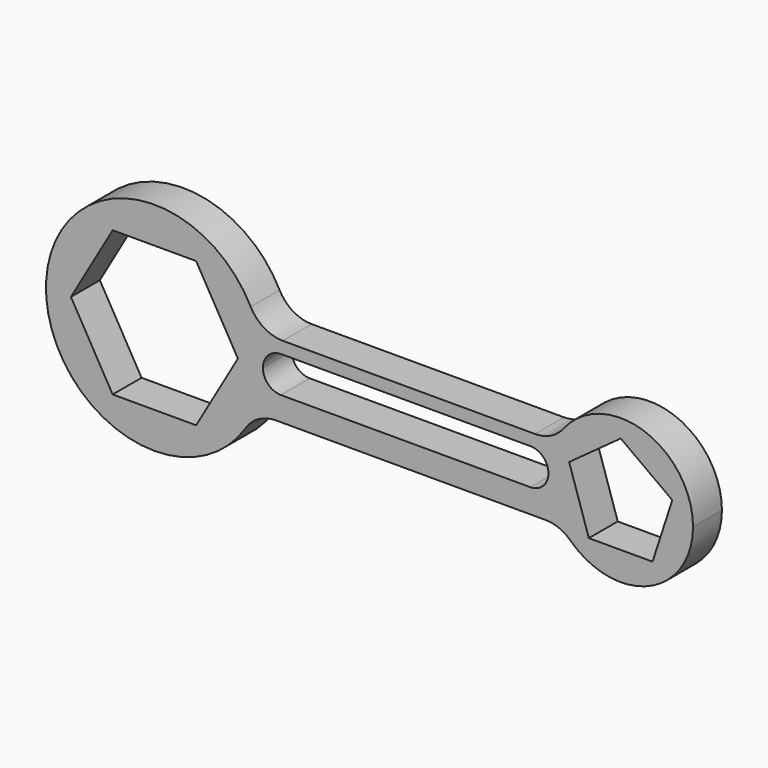
from build123d import *

# Parameters (mm, degrees)
F1_DEPTH = 254


with BuildPart() as f1:
    # F0 (on Front) → F1 (new body)
    with BuildSketch(Plane.XZ):
        with BuildLine():
            ThreePointArc((-11359.756859, 349.991885), (-11296.21335, 180.098482), (-11274.624409, 0))
            ThreePointArc((-11274.624409, 0), (-11274.624416, -0.102806), (-11274.624437, -0.205613))
            ThreePointArc((-11274.624437, -0.205613), (-11237.414886, 89.574795), (-11147.624441, 126.760119))
            Line((-11147.624441, 126.760119), (-9395.024378, 126.760119))
            ThreePointArc((-9395.024378, 126.760119), (-9305.207724, 89.548586), (-9268.024384, -0.279743))
            ThreePointArc((-9268.024384, -0.279743), (-9240.601765, 164.210176), (-9161.392211, 310.95751))
            ThreePointArc((-9161.392211, 310.95751), (-9250.342898, 238.55129), (-9362.076113, 212.655846))
            Line((-9362.076113, 212.655846), (-11134.134342, 212.655846))
            ThreePointArc((-11134.134342, 212.655846), (-11266.201283, 249.689667), (-11359.756859, 349.991885))
        make_face()
        with BuildLine():
            ThreePointArc((-11274.624437, -0.205613), (-11274.624416, -0.102806), (-11274.624409, 0))
            ThreePointArc((-11274.624409, 0), (-11296.21335, 180.098482), (-11359.756859, 349.991885))
            ThreePointArc((-11359.756859, 349.991885), (-12797.782112, 35.818309), (-11395.614805, -412.008115))
            ThreePointArc((-11395.614805, -412.008115), (-11305.526404, -214.801552), (-11274.624437, -0.205613))
        make_face()
        Polygon((-12329.918346, 508), (-11743.330472, 508), (-11450.036536, 0), (-11743.330472, -508), (-12329.918346, -508), (-12623.212283, 0), align=None, mode=Mode.SUBTRACT)
        with BuildLine():
            ThreePointArc((-8252.024409, -0.439161), (-8595.45048, 480.164024), (-9161.392211, 310.95751))
            ThreePointArc((-9161.392211, 310.95751), (-9240.601765, 164.210176), (-9268.024384, -0.279743))
            ThreePointArc((-9268.024384, -0.279743), (-9227.527829, -199.196684), (-9112.379854, -366.375823))
            ThreePointArc((-9112.379854, -366.375823), (-8561.193534, -467.911388), (-8252.024409, -0.439161))
        make_face()
        Polygon((-9122.376942, 117.296313), (-8760.024409, 380.560839), (-8397.671876, 117.296313), (-8536.078228, -308.674636), (-8983.97059, -308.674636), align=None, mode=Mode.SUBTRACT)
        with BuildLine():
            ThreePointArc((-11147.624441, -127.239881), (-11237.439117, -90.030325), (-11274.624437, -0.205613))
            ThreePointArc((-11274.624437, -0.205613), (-11305.526404, -214.801552), (-11395.614805, -412.008115))
            ThreePointArc((-11395.614805, -412.008115), (-11303.667256, -326.40991), (-11181.944937, -295.344154))
            Line((-11181.944937, -295.344154), (-9288.557577, -295.344154))
            ThreePointArc((-9288.557577, -295.344154), (-9193.578516, -313.770433), (-9112.379854, -366.375823))
            ThreePointArc((-9112.379854, -366.375823), (-9227.527829, -199.196684), (-9268.024384, -0.279743))
            ThreePointArc((-9268.024384, -0.279743), (-9305.235911, -90.056534), (-9395.024378, -127.239881))
            Line((-9395.024378, -127.239881), (-11147.624441, -127.239881))
        make_face()
    extrude(amount=F1_DEPTH)


solid = f1.part
